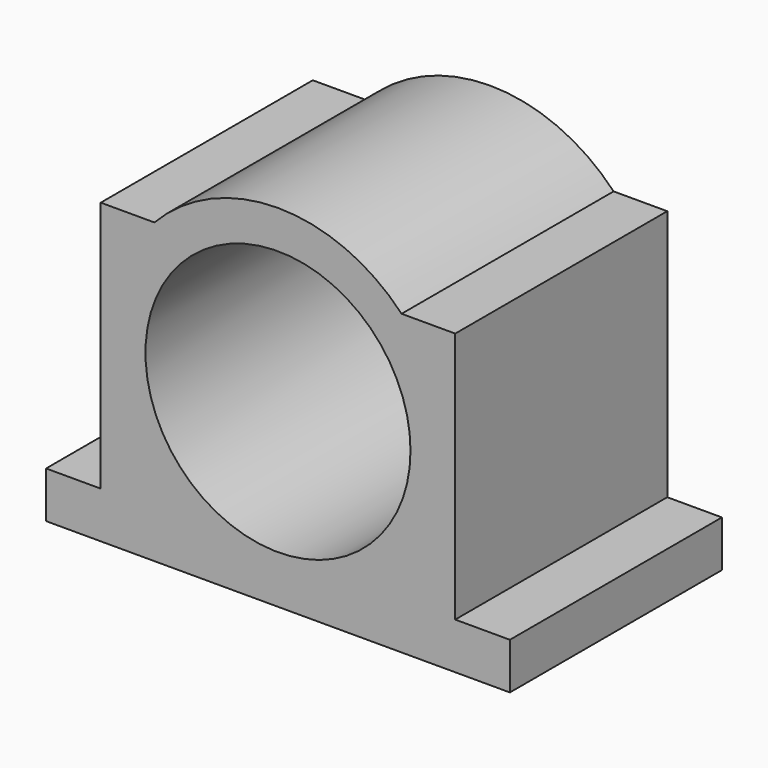
from build123d import *

# Parameters (mm, degrees)
F0_R     = 40
F1_DEPTH = 40


with BuildPart() as f1:
    # F0 (on Front) → F1 (new body, symmetric)
    with BuildSketch(Plane.XZ):
        with BuildLine():
            Line((53.5, 35.5), (37.3095162124, 35.5))
            ThreePointArc((37.3095162124, 35.5), (0, 51.5), (-37.3095162124, 35.5))
            Line((-37.3095162124, 35.5), (-53.5, 35.5))
            Line((-53.5, 35.5), (-53.5, -40.5))
            Line((-53.5, -40.5), (-70, -40.5))
            Line((-70, -40.5), (-70, -54.5))
            Line((-70, -54.5), (70, -54.5))
            Line((70, -54.5), (70, -40.5))
            Line((70, -40.5), (53.5, -40.5))
            Line((53.5, -40.5), (53.5, 35.5))
        make_face()
        Circle(F0_R, mode=Mode.SUBTRACT)
    extrude(amount=F1_DEPTH, both=True)


solid = f1.part
